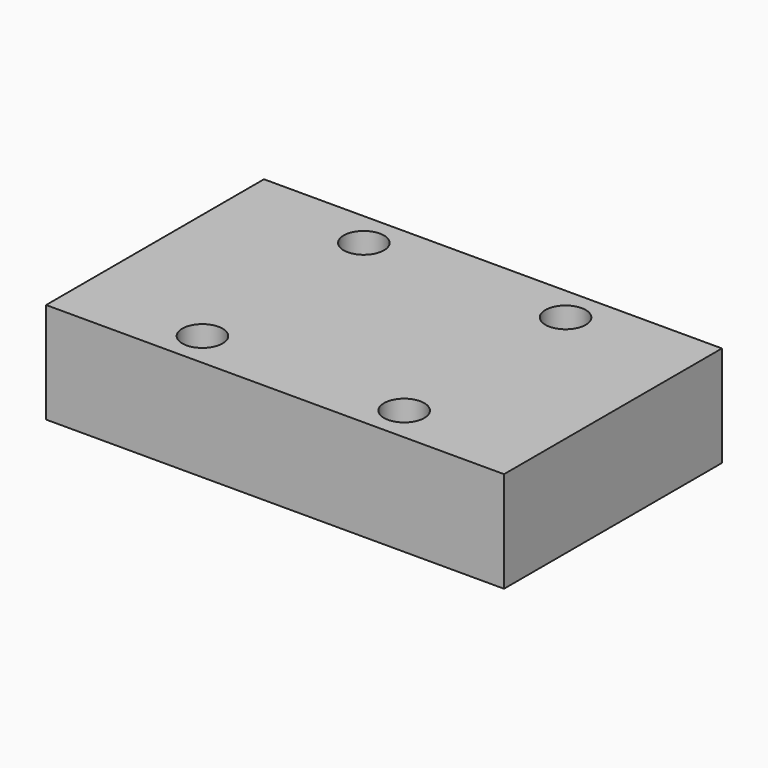
from build123d import *

# Parameters (mm, degrees)
CYLINDER002_R     = 2
CYLINDER002_DEPTH = 10
CYLINDER001_R     = 2
CYLINDER001_DEPTH = 10
CYLINDER_R        = 2
CYLINDER_DEPTH    = 10
CYLINDER003_R     = 2
CYLINDER003_DEPTH = 10
BOX_W             = 45.4
BOX_H             = 27
BOX_DEPTH         = 10


with BuildPart() as cylinder002:
    # Cylinder002 → Cylinder002 (new body)
    with BuildSketch(Plane(origin=(32.7, 23.5, 0), x_dir=(1, 0, 0), z_dir=(0, 0, 1))):
        Circle(CYLINDER002_R)
    extrude(amount=CYLINDER002_DEPTH)


with BuildPart() as cylinder001:
    # Cylinder001 → Cylinder001 (new body)
    with BuildSketch(Plane(origin=(32.7, 3.5, 0), x_dir=(1, 0, 0), z_dir=(0, 0, 1))):
        Circle(CYLINDER001_R)
    extrude(amount=CYLINDER001_DEPTH)


with BuildPart() as cylinder:
    # Cylinder → Cylinder (new body)
    with BuildSketch(Plane(origin=(12.7, 3.5, 0), x_dir=(1, 0, 0), z_dir=(0, 0, 1))):
        Circle(CYLINDER_R)
    extrude(amount=CYLINDER_DEPTH)


with BuildPart() as fusion:
    # Cylinder003 → Cylinder003 (new body)
    with BuildSketch(Plane(origin=(12.7, 23.5, 0), x_dir=(1, 0, 0), z_dir=(0, 0, 1))):
        Circle(CYLINDER003_R)
    extrude(amount=CYLINDER003_DEPTH)

    # Fusion: union Cylinder002, Cylinder001, Cylinder
    add(cylinder002.part)
    add(cylinder001.part)
    add(cylinder.part)


with BuildPart() as f_12h_block_ref:
    # Box → Box (new body)
    with BuildSketch(Plane.XY):
        with Locations((22.7, 13.5)):
            Rectangle(BOX_W, BOX_H)
    extrude(amount=BOX_DEPTH)

    # Cut: cut Fusion
    add(fusion.part, mode=Mode.SUBTRACT)


with BuildPart() as f_12h_block_ref_1:
    # Cut placement: moved
    add(f_12h_block_ref.part.moved(Location((-22.7, -13.5, 5))))


solid = f_12h_block_ref_1.part
